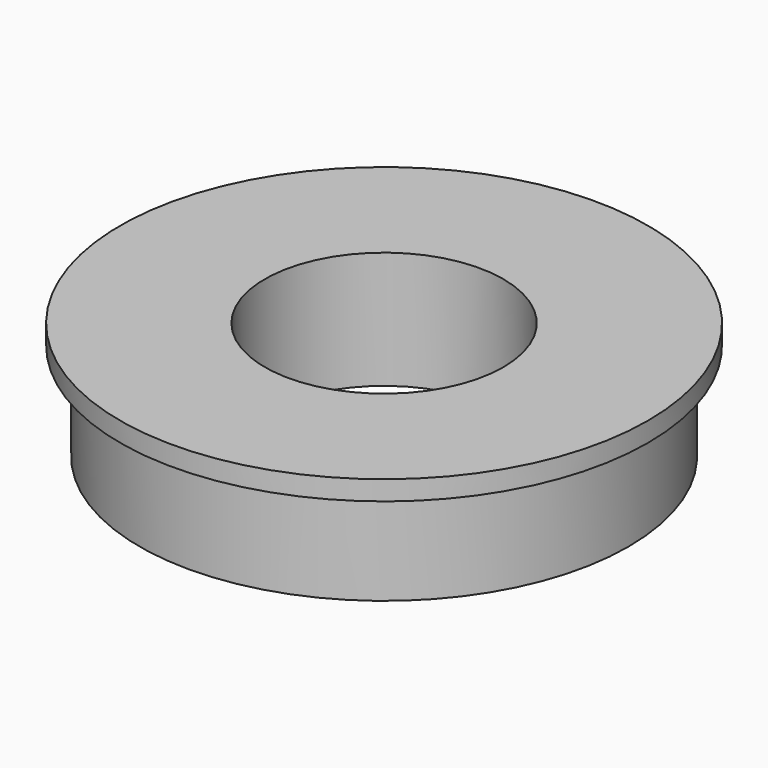
from build123d import *

# Parameters (mm, degrees)
F0_R     = 13.5
F1_DEPTH = 1
F2_R     = 12.5
F3_DEPTH = 5
F4_R     = 6.1
F5_DEPTH = 6.001


with BuildPart() as f1:
    # F0 (on Top) → F1 (new body)
    with BuildSketch(Plane.XY):
        Circle(F0_R)
    extrude(amount=F1_DEPTH)

    # F2 (on face) → F3 (join)
    with BuildSketch(Plane(origin=(0, 0, 0), x_dir=(1, 0, 0), z_dir=(0, 0, -1))):
        Circle(F2_R)
    extrude(amount=F3_DEPTH)

    # F4 (on face) → F5 (cut, through all)
    with BuildSketch(Plane.XY.offset(1)):
        Circle(F4_R)
    extrude(amount=-F5_DEPTH, mode=Mode.SUBTRACT)


solid = f1.part
